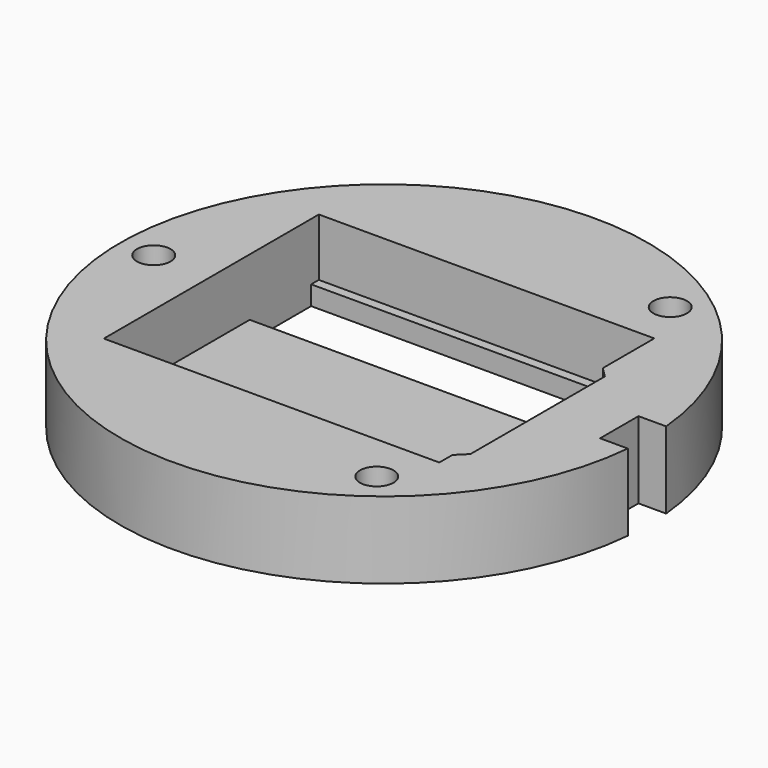
from build123d import *

# Parameters (mm, degrees)
SKETCH_R        = 27.5
PAD_DEPTH       = 8
POCKET_DEPTH    = 6
SKETCH013_R     = 1.75
POCKET006_DEPTH = 10
SKETCH021_W     = 35
SKETCH021_H     = 8
POCKET013_DEPTH = 2
SKETCH022_W     = 3
SKETCH022_H     = 5
POCKET014_DEPTH = 13


with BuildPart() as part:
    # Sketch → Pad (new body)
    with BuildSketch(Plane.XY):
        Circle(SKETCH_R)
    extrude(amount=PAD_DEPTH)

    # Sketch002 (on Face3 of Pad) → Pocket (cut)
    with BuildSketch(Plane.XY.offset(8)):
        Polygon((-18, 14), (-18, -14), (16.95, -14), (16.95, -12.3), (18, -11.25), (18, 6.25), (16.95, 7.3), (16.95, 14), align=None)
    extrude(amount=-POCKET_DEPTH, mode=Mode.SUBTRACT)

    # Sketch013 (on Face3 of Pocket) → Pocket006 (cut)
    with BuildSketch(Plane.XY.offset(8)):
        with Locations((-24, 0)):
            Circle(SKETCH013_R)
        with Locations((14.520833, 19.108778)):
            Circle(SKETCH013_R)
        with Locations((14.520833, -19.108778)):
            Circle(SKETCH013_R)
    extrude(amount=-POCKET006_DEPTH, mode=Mode.SUBTRACT)

    # Sketch021 (on Face15 of Pocket006) → Pocket013 (cut)
    with BuildSketch(Plane.XY.offset(2)):
        with Locations((-0.5, 9)):
            Rectangle(SKETCH021_W, SKETCH021_H)
        with Locations((-0.5, -9)):
            Rectangle(SKETCH021_W, SKETCH021_H)
    extrude(amount=-POCKET013_DEPTH, mode=Mode.SUBTRACT)

    # Sketch022 (on Face3 of Pocket013) → Pocket014 (cut)
    with BuildSketch(Plane.XY.offset(8)):
        with Locations((26, 0)):
            Rectangle(SKETCH022_W, SKETCH022_H)
    extrude(amount=-POCKET014_DEPTH, mode=Mode.SUBTRACT)


with BuildPart() as part_1:
    # Body placement: moved
    add(part.part.moved(Location((0, 0, 18))))


solid = part_1.part
